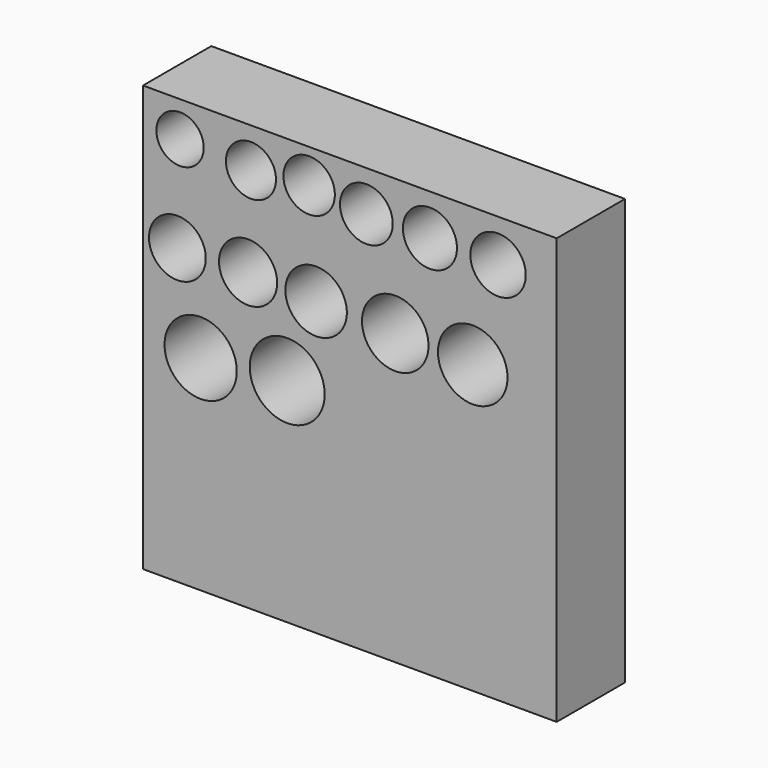
from build123d import *

# Parameters (mm, degrees)
F0_W     = 123.113498
F0_H     = 126.693976
F1_DEPTH = 25.4
F3_D     = 14.1
F4_D     = 14.9
F5_D     = 15.3
F6_D     = 15.7
F7_D     = 16.1
F8_D     = 16.5
F9_D     = 16.9
F10_D    = 17.3
F11_D    = 18.3
F12_D    = 19.8
F13_D    = 20.7
F14_D    = 21.5
F15_D    = 22.3


with BuildPart() as f1:
    # F0 (on Front) → F1 (new body)
    with BuildSketch(Plane.XZ):
        with Locations((2.891928, -3.167348)):
            Rectangle(F0_W, F0_H)
    extrude(amount=F1_DEPTH)

    # F3 (through all)
    with Locations(Plane.XZ.offset(25.4)):
        with Locations((-47.647953, 49.713619)):
            Hole(F3_D / 2)

    # F4 (through all)
    with Locations(Plane.XZ.offset(25.4)):
        with Locations((-26.540603, 48.396926)):
            Hole(F4_D / 2)

    # F5 (through all)
    with Locations(Plane.XZ.offset(25.4)):
        with Locations((-9.222592, 50.100338)):
            Hole(F5_D / 2)

    # F6 (through all)
    with Locations(Plane.XZ.offset(25.4)):
        with Locations((7.811517, 48.113026)):
            Hole(F6_D / 2)

    # F7 (through all)
    with Locations(Plane.XZ.offset(25.4)):
        with Locations((26.720595, 47.939809)):
            Hole(F7_D / 2)

    # F8 (through all)
    with Locations(Plane.XZ.offset(25.4)):
        with Locations((46.989974, 47.545221)):
            Hole(F8_D / 2)

    # F9 (through all)
    with Locations(Plane.XZ.offset(25.4)):
        with Locations((-48.436428, 20.943279)):
            Hole(F9_D / 2)

    # F10 (through all)
    with Locations(Plane.XZ.offset(25.4)):
        with Locations((-27.392309, 21.426253)):
            Hole(F10_D / 2)

    # F11 (through all)
    with Locations(Plane.XZ.offset(25.4)):
        with Locations((-7.154659, 20.386403)):
            Hole(F11_D / 2)

    # F12 (through all)
    with Locations(Plane.XZ.offset(25.4)):
        with Locations((16.401133, 19.650284)):
            Hole(F12_D / 2)

    # F13 (through all)
    with Locations(Plane.XZ.offset(25.4)):
        with Locations((39.46618, 18.914167)):
            Hole(F13_D / 2)

    # F14 (through all)
    with Locations(Plane.XZ.offset(25.4)):
        with Locations((-41.506853, -5.623117)):
            Hole(F14_D / 2)

    # F15 (through all)
    with Locations(Plane.XZ.offset(25.4)):
        with Locations((-15.742708, -3.169389)):
            Hole(F15_D / 2)


solid = f1.part
